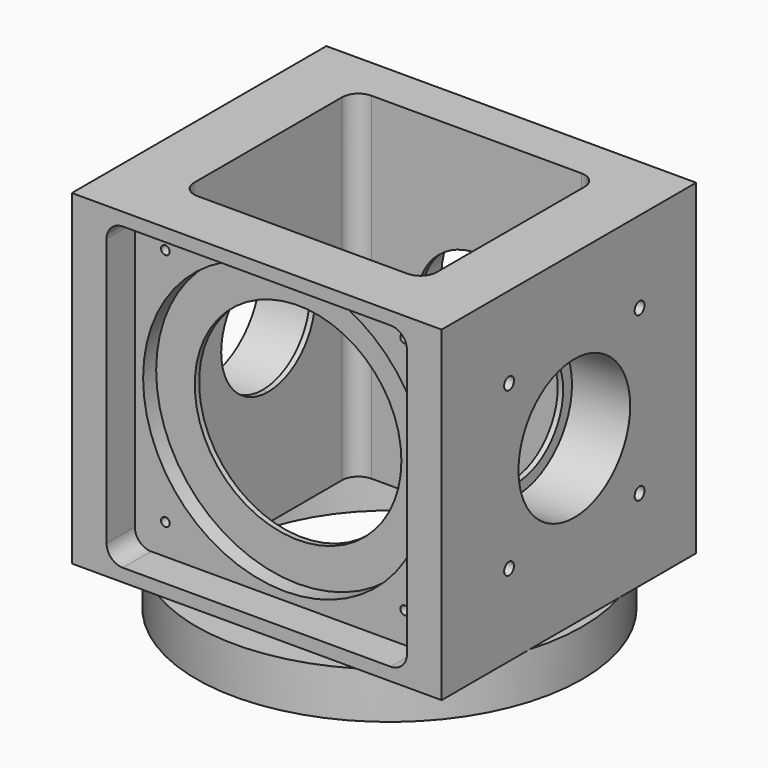
from build123d import *

# Parameters (mm, degrees)
F1_R      = 35.5
F2_DEPTH  = 8.5
F0_R      = 30.25
F3_DEPTH  = 8.5
F5_W      = 68
F5_H      = 28
F5_H_2    = 30.5
F6_DEPTH  = 60
F7_R      = 35.25
F8_DEPTH  = 2
F9_DEPTH  = 100
F10_R     = 19
F11_DEPTH = 12
F12_R     = 26.1
F13_DEPTH = 9.5
F15_DEPTH = 6.5
F17_DEPTH = 25
F18_R     = 12.84
F19_DEPTH = 10.7
F20_R     = 10.8
F21_DEPTH = 25
F22_R     = 12.84
F23_DEPTH = 7
F24_R     = 0.8
F25_DEPTH = 3
F26_R     = 2.55
F27_DEPTH = 5
F28_R     = 10.8
F29_DEPTH = 25
F30_R     = 12.84
F31_DEPTH = 10.7
F32_R     = 1.13
F33_DEPTH = 6
F34_R     = 1.13
F35_DEPTH = 6


with BuildPart() as f2:
    # F1 (on Top) → F2 (new body)
    with BuildSketch(Plane.XY):
        Circle(F1_R)
    extrude(amount=F2_DEPTH)

    # F0 (on Top) → F3 (cut)
    with BuildSketch(Plane.XY):
        Circle(F0_R)
    extrude(amount=F3_DEPTH, mode=Mode.SUBTRACT)

    # F5 (on face) → F6 (join)
    with BuildSketch(Plane.XY.offset(8.5)):
        with Locations((0, 14)):
            Rectangle(F5_W, F5_H)
        with Locations((0, -15.25)):
            Rectangle(F5_W, F5_H_2)
    extrude(amount=F6_DEPTH)

    # F7 (on face) → F8 (join)
    with BuildSketch(Plane(origin=(0, 0, 8.5), x_dir=(1, 0, 0), z_dir=(0, 0, -1))):
        Circle(F7_R)
    extrude(amount=F8_DEPTH)

    # F4 (on face) → F9 (cut, symmetric)
    with BuildSketch(Plane.XY.offset(8.5)):
        with BuildLine():
            Line((-19.3, -20), (19.3, -20))
            ThreePointArc((19.3, -20), (21.4213203436, -19.1213203436), (22.3, -17))
            Line((22.3, -17), (22.3, 17))
            ThreePointArc((22.3, 17), (21.4213203436, 19.1213203436), (19.3, 20))
            Line((19.3, 20), (-19.3, 20))
            ThreePointArc((-19.3, 20), (-21.4213203436, 19.1213203436), (-22.3, 17))
            Line((-22.3, 17), (-22.3, -17))
            ThreePointArc((-22.3, -17), (-21.4213203436, -19.1213203436), (-19.3, -20))
        make_face()
    extrude(amount=F9_DEPTH, both=True, mode=Mode.SUBTRACT)

    # F10 (on face) → F11 (cut)
    with BuildSketch(Plane.XZ.offset(30.5)):
        with Locations((0, 38.5)):
            Circle(F10_R)
    extrude(amount=-F11_DEPTH, mode=Mode.SUBTRACT)

    # F12 (on face) → F13 (cut)
    with BuildSketch(Plane.XZ.offset(30.5)):
        with Locations((0, 38.5)):
            Circle(F12_R)
    extrude(amount=-F13_DEPTH, mode=Mode.SUBTRACT)

    # F14 (on face) → F15 (cut)
    with BuildSketch(Plane.XZ.offset(30.5)):
        with BuildLine():
            Line((-24.625, 10.875), (24.625, 10.875))
            ThreePointArc((24.625, 10.875), (26.7463203436, 11.7536796564), (27.625, 13.875))
            Line((27.625, 13.875), (27.625, 63.125))
            ThreePointArc((27.625, 63.125), (26.7463203436, 65.2463203436), (24.625, 66.125))
            Line((24.625, 66.125), (-24.625, 66.125))
            ThreePointArc((-24.625, 66.125), (-26.7463203436, 65.2463203436), (-27.625, 63.125))
            Line((-27.625, 63.125), (-27.625, 13.875))
            ThreePointArc((-27.625, 13.875), (-26.7463203436, 11.7536796564), (-24.625, 10.875))
        make_face()
    extrude(amount=-F15_DEPTH, mode=Mode.SUBTRACT)

    # F16 (on face) → F17 (cut)
    with BuildSketch(Plane(origin=(-34, 0, 0), x_dir=(0, -1, 0), z_dir=(-1, 0, 0))):
        with BuildLine():
            ThreePointArc((0, 27.7), (7.6367532368, 30.8632467632), (10.8, 38.5))
            ThreePointArc((10.8, 38.5), (-7.6367532368, 46.1367532368), (0, 27.7))
        make_face()
    extrude(amount=-F17_DEPTH, mode=Mode.SUBTRACT)

    # F18 (on face) → F19 (cut)
    with BuildSketch(Plane(origin=(-34, 0, 0), x_dir=(0, -1, 0), z_dir=(-1, 0, 0))):
        with Locations((0, 38.5)):
            Circle(F18_R)
    extrude(amount=-F19_DEPTH, mode=Mode.SUBTRACT)

    # F20 (on face) → F21 (cut)
    with BuildSketch(Plane(origin=(0, 28, 0), x_dir=(-1, 0, 0), z_dir=(0, 1, 0))):
        with Locations((0, 38.5)):
            Circle(F20_R)
    extrude(amount=-F21_DEPTH, mode=Mode.SUBTRACT)

    # F22 (on face) → F23 (cut)
    with BuildSketch(Plane(origin=(0, 28, 0), x_dir=(-1, 0, 0), z_dir=(0, 1, 0))):
        with Locations((0, 38.5)):
            Circle(F22_R)
    extrude(amount=-F23_DEPTH, mode=Mode.SUBTRACT)

    # F24 (on face) → F25 (cut)
    with BuildSketch(Plane.XZ.offset(24)):
        with Locations((-22, 60.5)):
            Circle(F24_R)
        with Locations((22, 60.5)):
            Circle(F24_R)
        with Locations((22, 16.5)):
            Circle(F24_R)
        with Locations((-22, 16.5)):
            Circle(F24_R)
    extrude(amount=-F25_DEPTH, mode=Mode.SUBTRACT)

    # F26 (on face) → F27 (cut)
    with BuildSketch(Plane(origin=(0, 28, 0), x_dir=(-1, 0, 0), z_dir=(0, 1, 0))):
        with Locations((-25.4, 55)):
            Circle(F26_R)
        with Locations((25.4, 55)):
            Circle(F26_R)
        with Locations((25.4, 22)):
            Circle(F26_R)
        with Locations((-25.4, 22)):
            Circle(F26_R)
    extrude(amount=-F27_DEPTH, mode=Mode.SUBTRACT)

    # F28 (on face) → F29 (cut)
    with BuildSketch(Plane.YZ.offset(34)):
        with Locations((0, 38.5)):
            Circle(F28_R)
    extrude(amount=-F29_DEPTH, mode=Mode.SUBTRACT)

    # F30 (on face) → F31 (cut)
    with BuildSketch(Plane.YZ.offset(34)):
        with Locations((0, 38.5)):
            Circle(F30_R)
    extrude(amount=-F31_DEPTH, mode=Mode.SUBTRACT)

    # F32 (on face) → F33 (cut)
    with BuildSketch(Plane.YZ.offset(34)):
        with Locations((-15, 53.5)):
            Circle(F32_R)
        with Locations((15, 53.5)):
            Circle(F32_R)
        with Locations((15, 23.5)):
            Circle(F32_R)
        with Locations((-15, 23.5)):
            Circle(F32_R)
    extrude(amount=-F33_DEPTH, mode=Mode.SUBTRACT)

    # F34 (on face) → F35 (cut)
    with BuildSketch(Plane(origin=(-34, 0, 0), x_dir=(0, -1, 0), z_dir=(-1, 0, 0))):
        with Locations((-15, 23.5)):
            Circle(F34_R)
        with Locations((15, 23.5)):
            Circle(F34_R)
        with Locations((15, 53.5)):
            Circle(F34_R)
        with Locations((-15, 53.5)):
            Circle(F34_R)
    extrude(amount=-F35_DEPTH, mode=Mode.SUBTRACT)


solid = f2.part
